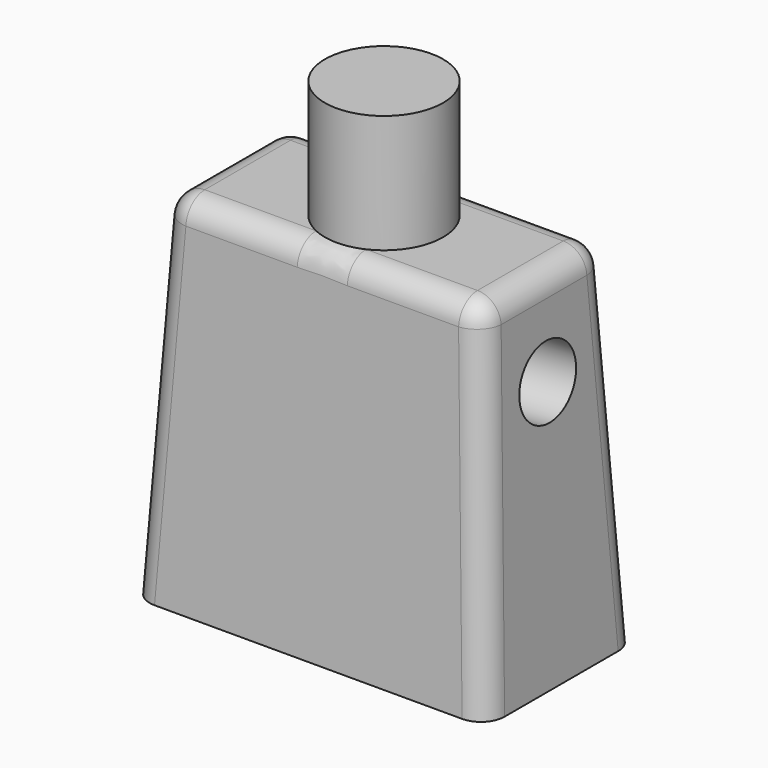
from build123d import *

# Parameters (mm, degrees)
F0_W     = 15
F0_H     = 8
F1_DEPTH = 15
F1_TAPER = 3
F2_R     = 2.5
F3_DEPTH = 5
F4_R     = 1
F5_R     = 1.5
F6_DEPTH = 3
F7_R     = 1.5
F8_DEPTH = 3


with BuildPart() as f1:
    # F0 (on Top) → F1 (new body)
    with BuildSketch(Plane.XY):
        Rectangle(F0_W, F0_H)
    extrude(amount=F1_DEPTH, taper=F1_TAPER)

    # F2 (on face) → F3 (join)
    with BuildSketch(Plane.XY.offset(15)):
        Circle(F2_R)
    extrude(amount=F3_DEPTH)

    # F4
    f4_edges = [f1.edges().sort_by_distance(p)[0] for p in [
        (7.106942, -3.606942, 7.5),
        (-7.106942, -3.606942, 7.5),
        (7.106942, 3.606942, 7.5),
        (6.713883, 0, 15),
        (-7.106942, 3.606942, 7.5),
        (-6.713883, 0, 15),
        (0, 3.213883, 15),
        (0, -3.213883, 15),
    ]]
    fillet(f4_edges, radius=F4_R)

    # F5 (on face) → F6 (cut)
    with BuildSketch(Plane(origin=(7.4794571076, 0, 0.3919817373), x_dir=(0, 1, 0), z_dir=(0.9986295348, 0, 0.0523359562))):
        with Locations((0, 10.6777304862)):
            Circle(F5_R)
    extrude(amount=-F6_DEPTH, mode=Mode.SUBTRACT)

    # F7 (on face) → F8 (cut)
    with BuildSketch(Plane(origin=(-7.4794571076, 0, 0.3919817373), x_dir=(0, -1, 0), z_dir=(-0.9986295348, 0, 0.0523359562))):
        with Locations((0, 10.6777304862)):
            Circle(F7_R)
    extrude(amount=-F8_DEPTH, mode=Mode.SUBTRACT)


solid = f1.part
